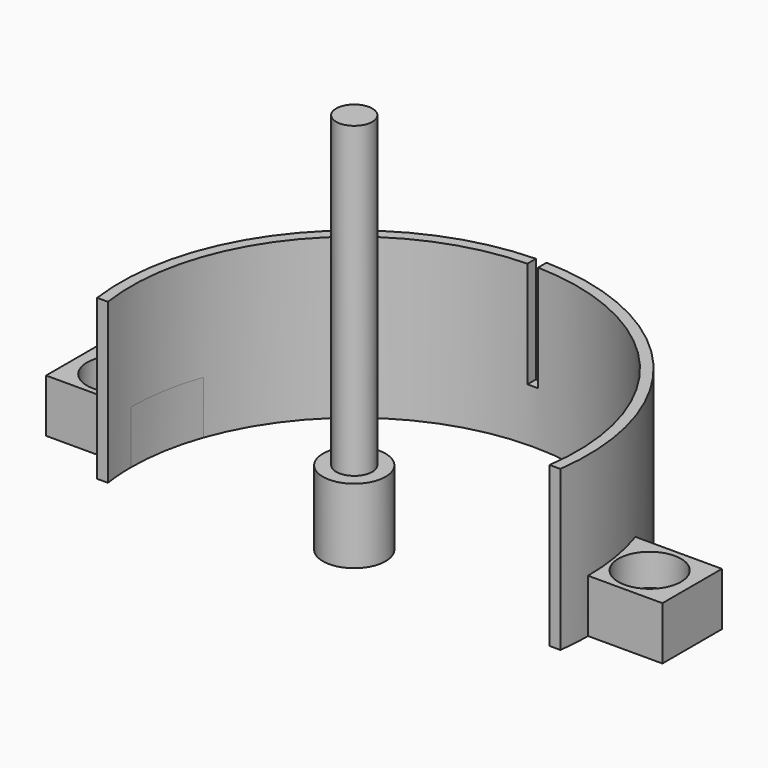
from build123d import *

# Parameters (mm, degrees)
CYLINDER_R               = 2.95
CYLINDER_DEPTH           = 7
CYLINDER001_R            = 1.7
CYLINDER001_DEPTH        = 30
BOX259_W                 = 1
BOX259_H                 = 9
BOX259_DEPTH             = 11
CLONE343_PLACEMENT_ANGLE = 180
CLONE344_PLACEMENT_ANGLE = 180
PAD043_DEPTH             = 15
PAD044_DEPTH             = 5


with BuildPart() as m3bolthead:
    # Cylinder → Cylinder (new body)
    with BuildSketch(Plane.XY):
        Circle(CYLINDER_R)
    extrude(amount=CYLINDER_DEPTH)


with BuildPart() as m3bolt:
    # Cylinder001 → Cylinder001 (new body)
    with BuildSketch(Plane.XY.offset(6)):
        Circle(CYLINDER001_R)
    extrude(amount=CYLINDER001_DEPTH)

    # Fusion: union M3BoltHead
    add(m3bolthead.part)


with BuildPart() as cube022:
    # Box259 → Box259 (new body)
    with BuildSketch(Plane(origin=(-0.5, 16, 5), x_dir=(1, 0, 0), z_dir=(0, 0, 1))):
        with Locations((0.5, 4.5)):
            Rectangle(BOX259_W, BOX259_H)
    extrude(amount=BOX259_DEPTH)


with BuildPart() as clone_of_m3bolt114:
    # Clone343 base: copy of M3Bolt
    add(m3bolt.part)


with BuildPart() as clone_of_m3bolt114_1:
    # Clone343 placement: moved
    add(clone_of_m3bolt114.part.moved(Location((25, 3.5, 9))).rotate(Axis((25, 3.5, 9), (1, 0, 0)), CLONE343_PLACEMENT_ANGLE))


with BuildPart() as fusion127:
    # Clone344 base: copy of M3Bolt
    add(m3bolt.part)


with BuildPart() as fusion127_1:
    # Clone344 placement: moved
    add(fusion127.part.moved(Location((-25, 3.5, 9))).rotate(Axis((-25, 3.5, 9), (1, 0, 0)), CLONE344_PLACEMENT_ANGLE))

    # Fusion127: union Clone of M3Bolt114
    add(clone_of_m3bolt114_1.part)


with BuildPart() as pad043:
    # Sketch068 → Pad043 (new body)
    with BuildSketch(Plane.XY):
        with BuildLine():
            ThreePointArc((21.794495, -3), (0, 22), (-21.794495, -3))
            Line((-21.794495, -3), (-20.78461, -3))
            ThreePointArc((20.78461, -3), (0, 21), (-20.78461, -3))
            Line((20.78461, -3), (21.794495, -3))
        make_face()
    extrude(amount=PAD043_DEPTH)


with BuildPart() as obj1:
    # Sketch069 → Pad044 (new body)
    with BuildSketch(Plane.XY):
        with BuildLine():
            ThreePointArc((21, 0), (20.69757, 3.551142), (19.79899, 7))
            Line((19.79899, 7), (29, 7))
            Line((29, 7), (29, 0))
            Line((29, 0), (21, 0))
        make_face()
        with BuildLine():
            ThreePointArc((-19.79899, 7), (-20.69757, 3.551142), (-21, 0))
            Line((-29, 0), (-21, 0))
            Line((-29, 7), (-29, 0))
            Line((-19.79899, 7), (-29, 7))
        make_face()
    extrude(amount=PAD044_DEPTH)

    # Fusion126: union Pad043
    add(pad043.part)

    # Cut107: cut Fusion127
    add(fusion127_1.part, mode=Mode.SUBTRACT)

    # Cut108: cut Cube022
    add(cube022.part, mode=Mode.SUBTRACT)


solid = Compound([m3bolt.part, obj1.part])
